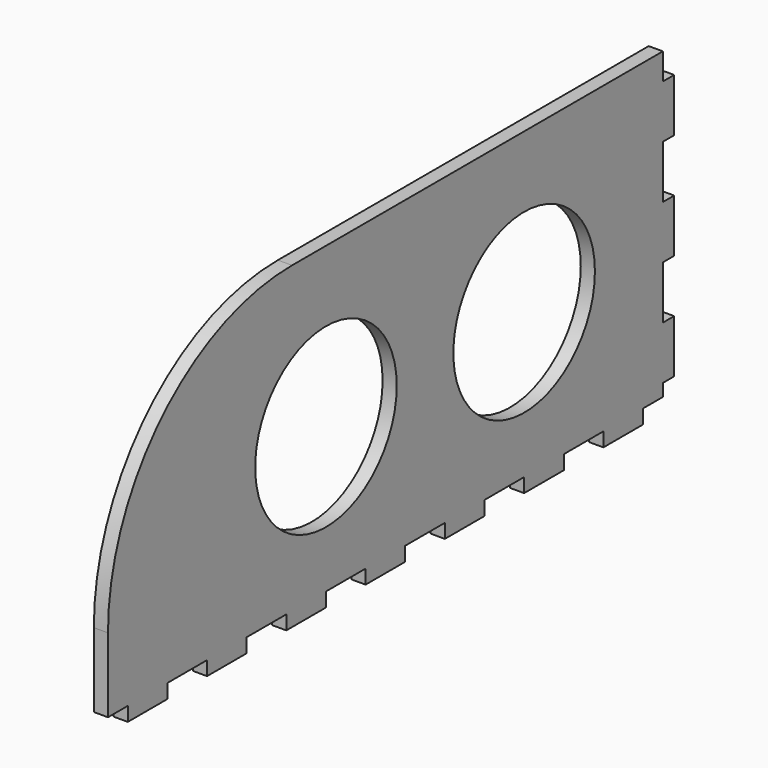
from build123d import *

# Parameters (mm, degrees)
SKETCH079_W     = 200
SKETCH079_H     = 90
PAD039_DEPTH    = 4
SKETCH078_R     = 25
SKETCH078_W     = 7
SKETCH078_H     = 4
SKETCH078_W_2   = 14
SKETCH078_W_3   = 4
SKETCH078_H_2   = 15
SKETCH078_H_3   = 7.5
POCKET035_DEPTH = 4
FILLET004_R     = 65


with BuildPart() as part:
    # Sketch079 → Pad039 (new body)
    with BuildSketch(Plane.YZ):
        Rectangle(SKETCH079_W, SKETCH079_H)
    extrude(amount=PAD039_DEPTH)

    # Sketch078 (on Face6 of Pad039) → Pocket035 (cut)
    with BuildSketch(Plane.YZ.offset(4)):
        with Locations((-23, 0)):
            Circle(SKETCH078_R)
        with Locations((47, 0)):
            Circle(SKETCH078_R)
        with Locations((-96.5, -43)):
            Rectangle(SKETCH078_W, SKETCH078_H)
        with Locations((-72, -43)):
            Rectangle(SKETCH078_W_2, SKETCH078_H)
        with Locations((-44, -43)):
            Rectangle(SKETCH078_W_2, SKETCH078_H)
        with Locations((-16, -43)):
            Rectangle(SKETCH078_W_2, SKETCH078_H)
        with Locations((12, -43)):
            Rectangle(SKETCH078_W_2, SKETCH078_H)
        with Locations((40, -43)):
            Rectangle(SKETCH078_W_2, SKETCH078_H)
        with Locations((68, -43)):
            Rectangle(SKETCH078_W_2, SKETCH078_H)
        with Locations((98, -15)):
            Rectangle(SKETCH078_W_3, SKETCH078_H_2)
        with Locations((98, 15)):
            Rectangle(SKETCH078_W_3, SKETCH078_H_2)
        with Locations((98, 41.25)):
            Rectangle(SKETCH078_W_3, SKETCH078_H_3)
        Polygon((89, -45), (89, -41), (96, -41), (96, -37.5), (100, -37.5), (100, -45), align=None)
    extrude(amount=-POCKET035_DEPTH, mode=Mode.SUBTRACT)

    # Fillet004
    fillet004_edges = [part.edges().sort_by_distance(p)[0] for p in [
        (2, -100, 45),
    ]]
    fillet(fillet004_edges, radius=FILLET004_R)


with BuildPart() as part_1:
    # Body039 placement: moved
    add(part.part.moved(Location((3, -402, 0))))


solid = part_1.part
